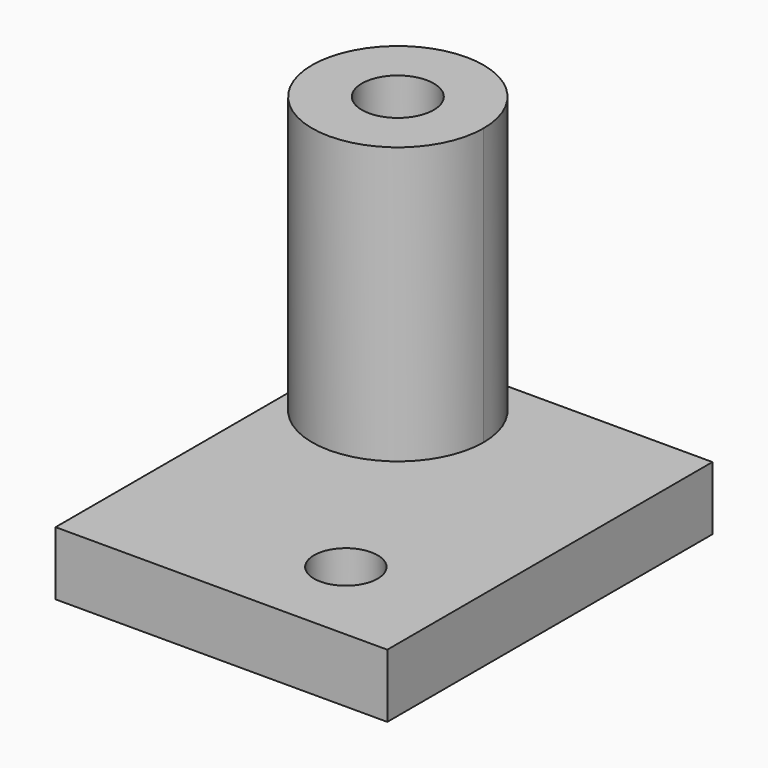
from build123d import *

# Parameters (mm, degrees)
F0_W     = 15.24
F0_H     = 18.669
F1_DEPTH = 2.921
F3_DEPTH = 12.7
F5_D     = 3.302
F5_DEPTH = 7.62
F5_TIP   = 0.992020882
F7_D     = 2.921


with BuildPart() as f1:
    # F0 (on Top) → F1 (new body)
    with BuildSketch(Plane.XY):
        with Locations((-20.8066811628, 33.9163625899)):
            Rectangle(F0_W, F0_H)
    extrude(amount=F1_DEPTH)

    # F2 (on face) → F3 (join)
    with BuildSketch(Plane.XY.offset(2.921)):
        with BuildLine():
            ThreePointArc((-28.4266811628, 39.3138625899), (-24.4896811628, 35.3768625899), (-20.5526811628, 39.3138625899))
            ThreePointArc((-20.5526811628, 39.3138625899), (-21.7058017653, 42.0977419874), (-24.4896811628, 43.2508625899))
            ThreePointArc((-24.4896811628, 43.2508625899), (-27.2735605603, 42.0977419874), (-28.4266811628, 39.3138625899))
        make_face()
    extrude(amount=F3_DEPTH)

    # F5
    with Locations(Plane.XY.offset(15.621)):
        with Locations((-24.4896811628, 39.3138625899)):
            Hole(F5_D / 2, depth=F5_DEPTH)
            with Locations((0, 0, -(F5_DEPTH + F5_TIP / 2))):  # 118° drill point
                Cone(0, F5_D / 2, F5_TIP, mode=Mode.SUBTRACT)

    # F7 (through all)
    with Locations(Plane.XY.offset(2.921)):
        with Locations((-18.3639004827, 28.6720134318)):
            Hole(F7_D / 2)


solid = f1.part
